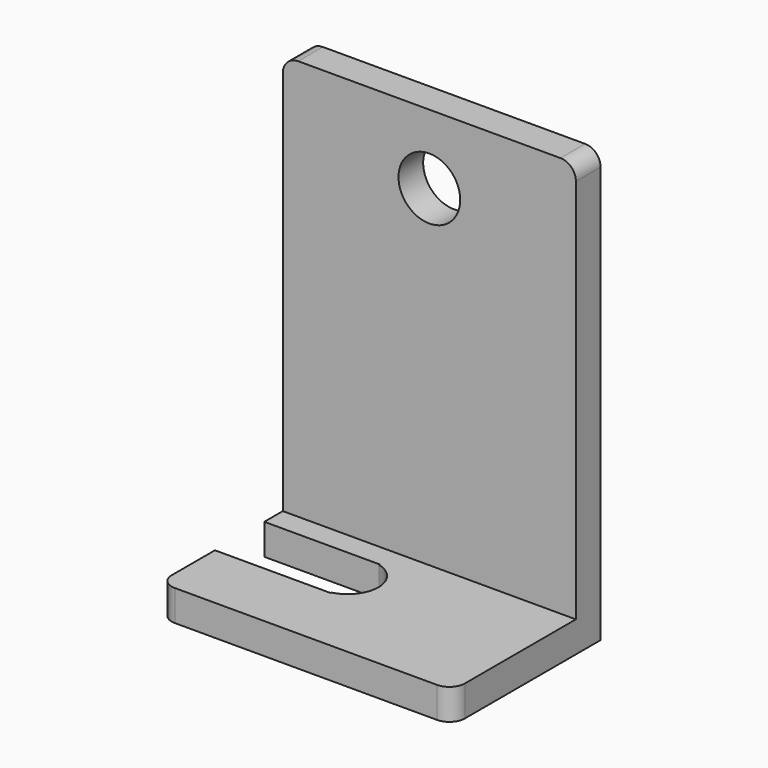
from build123d import *

# Parameters (mm, degrees)
BOX_W             = 19
BOX_H             = 12
BOX_DEPTH         = 2
BOX001_W          = 28
BOX001_H          = 19
BOX001_DEPTH      = 2
CYLINDER_R        = 2
CYLINDER_DEPTH    = 2
BOX002_W          = 8
BOX002_H          = 4
BOX002_DEPTH      = 2
CYLINDER001_R     = 2
CYLINDER001_DEPTH = 2
FILLET_R          = 1


with BuildPart() as part:
    # Box → Box (join)
    with BuildSketch(Plane(origin=(-9.5, -6, 0), x_dir=(1, 0, 0), z_dir=(0, 0, 1))):
        with Locations((9.5, 6)):
            Rectangle(BOX_W, BOX_H)
    extrude(amount=BOX_DEPTH)

    # Box001 → Box001 (join)
    with BuildSketch(Plane(origin=(-9.5, 4, 0), x_dir=(0, 0, 1), z_dir=(0, 1, 0))):
        with Locations((14, 9.5)):
            Rectangle(BOX001_W, BOX001_H)
    extrude(amount=BOX001_DEPTH)

    # Cylinder → Cylinder (cut)
    with BuildSketch(Plane(origin=(-2.5, 0.5, 0), x_dir=(1, 0, 0), z_dir=(0, 0, 1))):
        Circle(CYLINDER_R)
    extrude(amount=CYLINDER_DEPTH, mode=Mode.SUBTRACT)

    # Box002 → Box002 (cut)
    with BuildSketch(Plane(origin=(-10, -1.5, 0), x_dir=(1, 0, 0), z_dir=(0, 0, 1))):
        with Locations((4, 2)):
            Rectangle(BOX002_W, BOX002_H)
    extrude(amount=BOX002_DEPTH, mode=Mode.SUBTRACT)

    # Cylinder001 → Cylinder001 (cut)
    with BuildSketch(Plane(origin=(0, 6, 23.5), x_dir=(1, 0, 0), z_dir=(0, -1, 0))):
        Circle(CYLINDER001_R)
    extrude(amount=CYLINDER001_DEPTH, mode=Mode.SUBTRACT)

    # Fillet
    fillet_edges = [part.edges().sort_by_distance(p)[0] for p in [
        (-9.5, 5, 28),
        (9.5, 5, 28),
        (9.5, -6, 1),
        (-9.5, -6, 1),
    ]]
    fillet(fillet_edges, radius=FILLET_R)


solid = part.part
